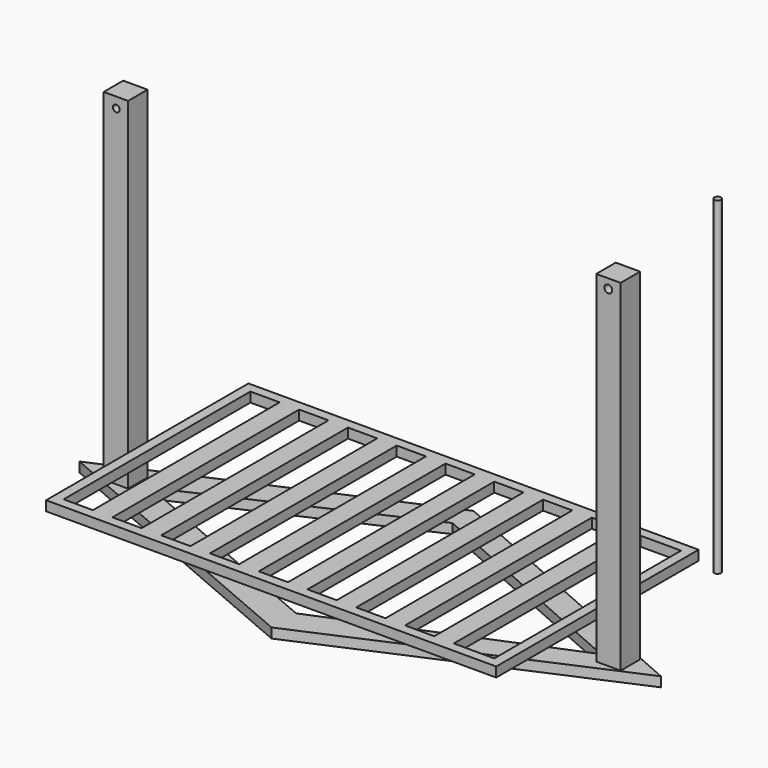
from build123d import *

# Parameters (mm, degrees)
F0_W          = 127
F0_H          = 1828.8
F1_DEPTH      = 63.5
F2_W          = 2344.5084095001
F2_H          = 1312.0200634003
F3_DEPTH      = 76.2
F4_R          = 17.6840509658
F5_DEPTH      = 656.0110317001
F5_DEPTH_BACK = 166.414886713
F6_R          = 20.2324998559
F7_DEPTH      = 63.5
F7_DEPTH_BACK = 170.9811687469
F9_DEPTH      = 50.8
F10_W         = 2344.5084095001
F10_H         = 135.2661035061
F11_DEPTH     = 1320.8
F13_W         = 2344.5084095001
F13_H         = 1317.5123929977
F13_W_2       = 101.6
F13_H_2       = 1215.9123929977
F14_DEPTH     = 50.8
F16_DEPTH     = 50.8
F21_R         = 17.5219317268
F22_DEPTH     = 1711.6990089417


with BuildPart() as f1:
    # F0 (on Front) → F1 (new body, symmetric)
    with BuildSketch(Plane.XZ):
        with Locations((-1282.7, 914.4)):
            Rectangle(F0_W, F0_H)
    extrude(amount=F1_DEPTH, both=True)

    # F4 (on Front) → F5 (cut, two sides)
    with BuildSketch(Plane.XZ) as f5_sk:
        with Locations((-1280.646443367, 1774.3800878525)):
            Circle(F4_R)
    extrude(amount=F5_DEPTH, mode=Mode.SUBTRACT)
    extrude(f5_sk.sketch, amount=-F5_DEPTH_BACK, mode=Mode.SUBTRACT)


with BuildPart() as f1b:
    # F0 (on Front) → F1, piece 2 (new body, symmetric)
    with BuildSketch(Plane.XZ):
        with Locations((1282.7, 914.4)):
            Rectangle(F0_W, F0_H)
    extrude(amount=F1_DEPTH, both=True)

    # F6 (on Front) → F7 (cut, two sides)
    with BuildSketch(Plane.XZ) as f7_sk:
        with Locations((1281.6846370697, 1780.1696062088)):
            Circle(F6_R)
    extrude(amount=F7_DEPTH, mode=Mode.SUBTRACT)
    extrude(f7_sk.sketch, amount=-F7_DEPTH_BACK, mode=Mode.SUBTRACT)


with BuildPart() as f3:
    # F2 (on Top) → F3 (new body)
    with BuildSketch(Plane.XY):
        Rectangle(F2_W, F2_H)
    extrude(amount=F3_DEPTH)


with BuildPart() as f9:
    # F8 (on Top) → F9 (new body)
    with BuildSketch(Plane.XY):
        Polygon((0, 661.4745634012), (-1523.6068986396, 0), (0, -653.5100268468), (1505.2209768039, 0), align=None)
        Polygon((0, -494.172642375), (-1152.1243991841, 0), (0, 524.2779540986), (1193.022706916, 0), align=None, mode=Mode.SUBTRACT)
    extrude(amount=F9_DEPTH)


with BuildPart() as f11:
    # F10 (on face) → F11 (new body)
    with BuildSketch(Plane.XZ.offset(656.0100317001)):
        with Locations((0, 321.633051753)):
            Rectangle(F10_W, F10_H)
    extrude(amount=-F11_DEPTH)

    # F13 (on face) → F14 (join)
    with BuildSketch(Plane(origin=(0, 0, 254), x_dir=(1, 0, 0), z_dir=(0, 0, -1))):
        with Locations((0, -2.7461647987)):
            Rectangle(F13_W, F13_H)
        Polygon((-1121.4542047501, -610.7023612976), (-1121.4542047501, 605.2100317001), (-969.0542047501, 605.2100317001), (-867.4542047501, 605.2100317001), (-715.0542047501, 605.2100317001), (-613.4542047501, 605.2100317001), (-461.0542047501, 605.2100317001), (-359.4542047501, 605.2100317001), (-207.0542047501, 605.2100317001), (-105.4542047501, 605.2100317001), (46.9457952499, 605.2100317001), (148.5457952499, 605.2100317001), (300.9457952499, 605.2100317001), (402.5457952499, 605.2100317001), (554.9457952499, 605.2100317001), (656.5457952499, 605.2100317001), (808.9457952499, 605.2100317001), (910.5457952499, 605.2100317001), (1121.4542047501, 605.2100317001), (1121.4542047501, -610.7023612976), (910.5457952499, -610.7023612976), (808.9457952499, -610.7023612976), (656.5457952499, -610.7023612976), (554.9457952499, -610.7023612976), (402.5457952499, -610.7023612976), (300.9457952499, -610.7023612976), (148.5457952499, -610.7023612976), (46.9457952499, -610.7023612976), (-105.4542047501, -610.7023612976), (-207.0542047501, -610.7023612976), (-359.4542047501, -610.7023612976), (-461.0542047501, -610.7023612976), (-613.4542047501, -610.7023612976), (-715.0542047501, -610.7023612976), (-867.4542047501, -610.7023612976), (-969.0542047501, -610.7023612976), align=None, mode=Mode.SUBTRACT)
        with Locations((605.7457952499, -2.7461647987)):
            Rectangle(F13_W_2, F13_H_2)
        with Locations((-156.2542047501, -2.7461647987)):
            Rectangle(F13_W_2, F13_H_2)
        with Locations((-664.2542047501, -2.7461647987)):
            Rectangle(F13_W_2, F13_H_2)
        with Locations((97.7457952499, -2.7461647987)):
            Rectangle(F13_W_2, F13_H_2)
        with Locations((-410.2542047501, -2.7461647987)):
            Rectangle(F13_W_2, F13_H_2)
        with Locations((859.7457952499, -2.7461647987)):
            Rectangle(F13_W_2, F13_H_2)
        with Locations((-918.2542047501, -2.7461647987)):
            Rectangle(F13_W_2, F13_H_2)
        with Locations((351.7457952499, -2.7461647987)):
            Rectangle(F13_W_2, F13_H_2)
    extrude(amount=F14_DEPTH)


with BuildPart() as f16:
    # F13 (on face) → F16 (new body)
    with BuildSketch(Plane(origin=(0, 0, 254), x_dir=(1, 0, 0), z_dir=(0, 0, -1))):
        with Locations((0, -2.7461647987)):
            Rectangle(F13_W, F13_H)
        Polygon((-1121.4542047501, -610.7023612976), (-1121.4542047501, 605.2100317001), (-969.0542047501, 605.2100317001), (-867.4542047501, 605.2100317001), (-715.0542047501, 605.2100317001), (-613.4542047501, 605.2100317001), (-461.0542047501, 605.2100317001), (-359.4542047501, 605.2100317001), (-207.0542047501, 605.2100317001), (-105.4542047501, 605.2100317001), (46.9457952499, 605.2100317001), (148.5457952499, 605.2100317001), (300.9457952499, 605.2100317001), (402.5457952499, 605.2100317001), (554.9457952499, 605.2100317001), (656.5457952499, 605.2100317001), (808.9457952499, 605.2100317001), (910.5457952499, 605.2100317001), (1121.4542047501, 605.2100317001), (1121.4542047501, -610.7023612976), (910.5457952499, -610.7023612976), (808.9457952499, -610.7023612976), (656.5457952499, -610.7023612976), (554.9457952499, -610.7023612976), (402.5457952499, -610.7023612976), (300.9457952499, -610.7023612976), (148.5457952499, -610.7023612976), (46.9457952499, -610.7023612976), (-105.4542047501, -610.7023612976), (-207.0542047501, -610.7023612976), (-359.4542047501, -610.7023612976), (-461.0542047501, -610.7023612976), (-613.4542047501, -610.7023612976), (-715.0542047501, -610.7023612976), (-867.4542047501, -610.7023612976), (-969.0542047501, -610.7023612976), align=None, mode=Mode.SUBTRACT)
        with Locations((-918.2542047501, -2.7461647987)):
            Rectangle(F13_W_2, F13_H_2)
        with Locations((-664.2542047501, -2.7461647987)):
            Rectangle(F13_W_2, F13_H_2)
        with Locations((-410.2542047501, -2.7461647987)):
            Rectangle(F13_W_2, F13_H_2)
        with Locations((-156.2542047501, -2.7461647987)):
            Rectangle(F13_W_2, F13_H_2)
        with Locations((97.7457952499, -2.7461647987)):
            Rectangle(F13_W_2, F13_H_2)
        with Locations((351.7457952499, -2.7461647987)):
            Rectangle(F13_W_2, F13_H_2)
        with Locations((605.7457952499, -2.7461647987)):
            Rectangle(F13_W_2, F13_H_2)
        with Locations((859.7457952499, -2.7461647987)):
            Rectangle(F13_W_2, F13_H_2)
    extrude(amount=F16_DEPTH)


with BuildPart() as f22:
    # F21 (on face) → F22 (new body)
    with BuildSketch(Plane(origin=(0, 0, 203.2), x_dir=(1, 0, 0), z_dir=(0, 0, -1))):
        with Locations((1293.8097715378, -633.3869099617)):
            Circle(F21_R)
    extrude(amount=-F22_DEPTH)


solid = Compound([f1.part, f1b.part, f9.part, f16.part, f22.part])
